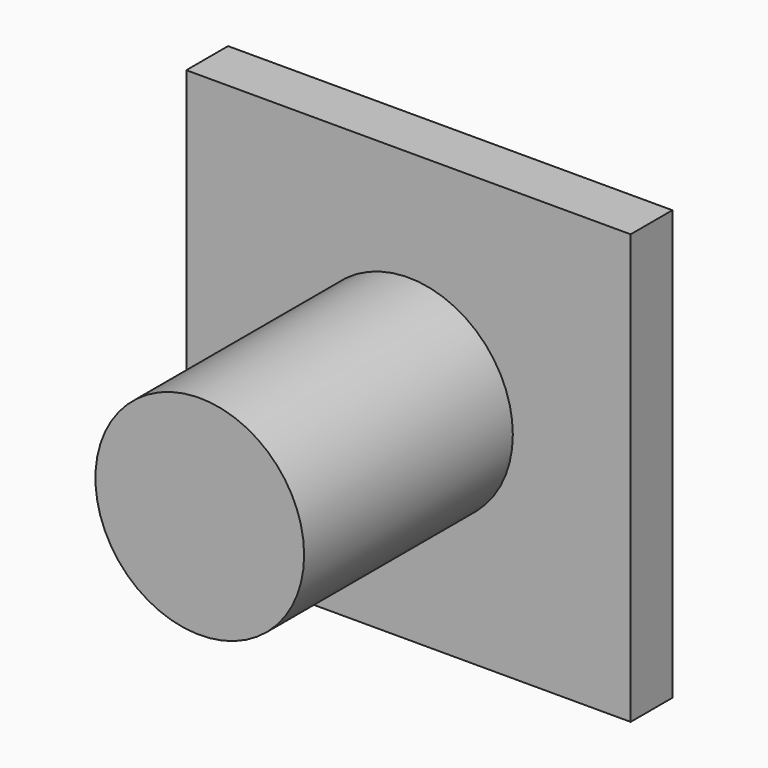
from build123d import *

# Parameters (mm, degrees)
F0_R     = 12.7
F1_DEPTH = 38.1
F0_W     = 54.0766
F0_H     = 52.244994
F2_DEPTH = 6.35


with BuildPart() as f1:
    # F0 (on Front) → F1 (new body)
    with BuildSketch(Plane.XZ):
        Circle(F0_R)
    extrude(amount=F1_DEPTH)

    # F0 (on Front) → F2 (join)
    with BuildSketch(Plane.XZ):
        Rectangle(F0_W, F0_H)
        Circle(F0_R, mode=Mode.SUBTRACT)
    extrude(amount=F2_DEPTH)


solid = f1.part
